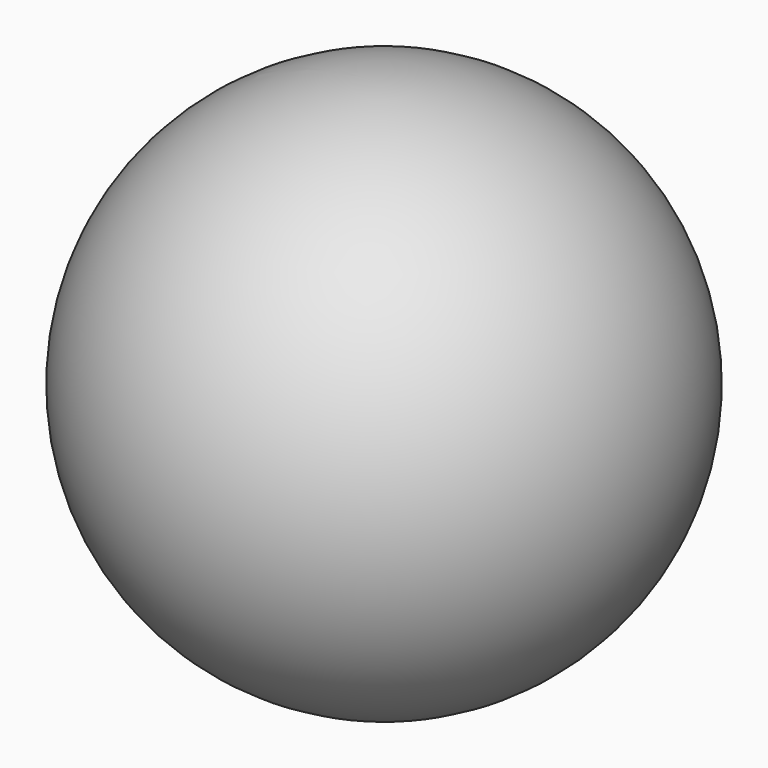
from build123d import *

# Parameters (mm, degrees)
F3_D     = 6.5
F3_DEPTH = 11.5
F3_TIP   = 1.9527970118


with BuildPart() as f1:
    # F0 (on Front) → F1 (revolve)
    with BuildSketch(Plane.XZ):
        with BuildLine():
            Line((0, -11.5), (0, 11.5))
            ThreePointArc((0, 11.5), (-11.5, 0), (0, -11.5))
        make_face()
    revolve(axis=Axis((0, 0, 0), (0, 0, -1)))

    # F3 (one way)
    with BuildSketch(Plane.XZ):
        with Locations((0, 0)):
            Circle(F3_D / 2)
    extrude(amount=-F3_DEPTH, mode=Mode.SUBTRACT)
    with Locations(Plane.XZ):
        with Locations((0, 0)):
            with Locations((0, 0, -(F3_DEPTH + F3_TIP / 2))):  # 118° drill point
                Cone(0, F3_D / 2, F3_TIP, mode=Mode.SUBTRACT)


solid = f1.part
